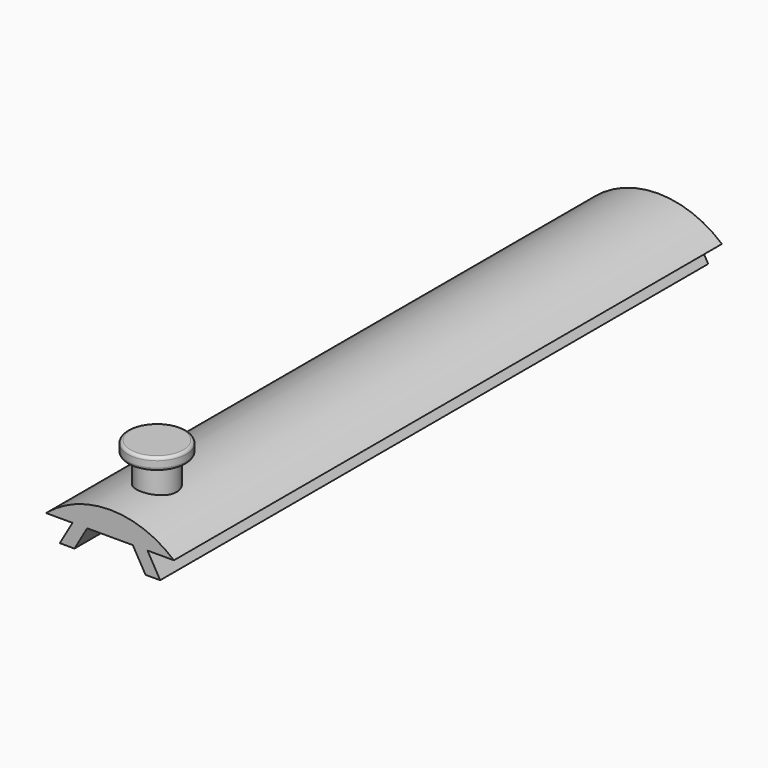
from build123d import *

# Parameters (mm, degrees)
F1_DEPTH = 70
F2_R     = 2
F3_DEPTH = 5
F4_R     = 3
F5_DEPTH = 1.25
F6_R     = 0.3


with BuildPart() as f1:
    # F0 (on Front) → F1 (new body)
    with BuildSketch(Plane.XZ):
        with BuildLine():
            Line((3.831252, 7.572499), (6.531252, 7.572499))
            ThreePointArc((6.531252, 7.572499), (0, 10), (-6.531252, 7.572499))
            Line((-6.531252, 7.572499), (-3.831252, 7.572499))
            Line((-3.831252, 7.572499), (-5.130291, 5.322499))
            Line((-5.130291, 5.322499), (-3.630291, 5.322499))
            Line((-3.630291, 5.322499), (-2.331252, 7.572499))
            Line((-2.331252, 7.572499), (0, 7.572499))
            Line((0, 7.572499), (2.331252, 7.572499))
            Line((2.331252, 7.572499), (3.630291, 5.322499))
            Line((3.630291, 5.322499), (5.130291, 5.322499))
            Line((5.130291, 5.322499), (3.831252, 7.572499))
        make_face()
    extrude(amount=-F1_DEPTH)

    # F2 (on face) → F3 (join)
    with BuildSketch(Plane(origin=(0, 0, 7.572499), x_dir=(1, 0, 0), z_dir=(0, 0, -1))):
        with Locations((0, -6)):
            Circle(F2_R)
    extrude(amount=-F3_DEPTH)

    # F4 (on face) → F5 (join)
    with BuildSketch(Plane.XY.offset(12.572499)):
        with Locations((0, 6)):
            Circle(F4_R)
    extrude(amount=F5_DEPTH)

    # F6
    f6_edges = [f1.edges().sort_by_distance(p)[0] for p in [
        (-3, 6, 13.822499),
        (-3, 6, 12.572499),
    ]]
    fillet(f6_edges, radius=F6_R)


solid = f1.part
